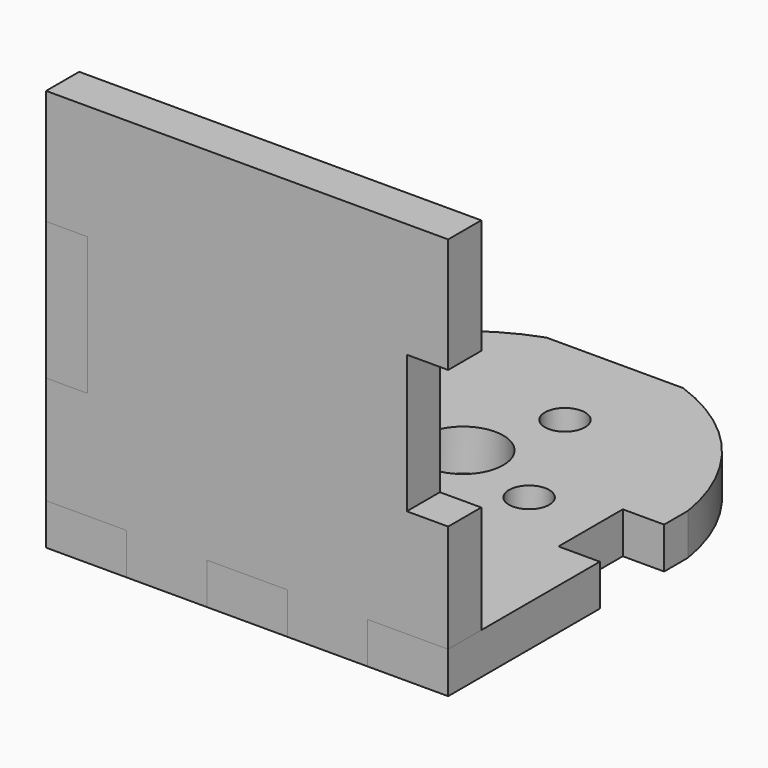
from build123d import *

# Parameters (mm, degrees)
F2_DEPTH = 3.6
F0_R     = 1.75
F0_W     = 6
F0_H     = 2
F0_R_2   = 3.5
F3_DEPTH = 3.6
F4_W     = 3.6
F4_H     = 12
F5_DEPTH = 3.6


with BuildPart() as f2:
    # F1 (on Front) → F2 (new body)
    with BuildSketch(Plane.XZ):
        Polygon((35, 35.005142), (0, 35.005142), (0, 25), (3.6, 25), (3.6, 13), (0, 13), (0, 3.6), (7, 3.6), (7, 0), (14, 0), (14, 3.6), (21, 3.6), (21, 0), (28, 0), (28, 3.6), (35, 3.6), (35, 13), (31.4, 13), (31.4, 25), (35, 25), align=None)
    extrude(amount=-F2_DEPTH)


with BuildPart() as f3:
    # F0 (on Top) → F3 (new body)
    with BuildSketch(Plane.XY):
        with BuildLine():
            Line((0, 16.5), (0, 0))
            Line((0, 0), (7, 0))
            Line((7, 0), (7, 3.6))
            Line((7, 3.6), (14, 3.6))
            Line((14, 3.6), (14, 0))
            Line((14, 0), (21, 0))
            Line((21, 0), (21, 3.6))
            Line((21, 3.6), (28, 3.6))
            Line((28, 3.6), (28, 0))
            Line((28, 0), (35, 0))
            Line((35, 0), (35, 16.5))
            Line((35, 16.5), (31.4, 16.5))
            Line((31.4, 16.5), (31.4, 23.5))
            Line((31.4, 23.5), (35, 23.5))
            Line((35, 23.5), (35, 26.103048))
            ThreePointArc((35, 26.103048), (31.127292, 34.635091), (23.445406, 40))
            Line((23.445406, 40), (11.554594, 40))
            ThreePointArc((11.554594, 40), (3.872708, 34.635091), (0, 26.103048))
            Line((0, 26.103048), (0, 23.5))
            Line((0, 23.5), (3.6, 23.5))
            Line((3.6, 23.5), (3.6, 16.5))
            Line((3.6, 16.5), (0, 16.5))
        make_face()
        with Locations((14.896952, 15.671421)):
            Circle(F0_R, mode=Mode.SUBTRACT)
        with Locations((21.966932, 8.378327)):
            Rectangle(F0_W, F0_H, mode=Mode.SUBTRACT)
        with Locations((9.671421, 26.103048)):
            Circle(F0_R, mode=Mode.SUBTRACT)
        with Locations((17.5, 23.5)):
            Circle(F0_R_2, mode=Mode.SUBTRACT)
        with Locations((25.328579, 20.896952)):
            Circle(F0_R, mode=Mode.SUBTRACT)
        with Locations((20.103048, 31.328579)):
            Circle(F0_R, mode=Mode.SUBTRACT)
    extrude(amount=F3_DEPTH)


with BuildPart() as f5:
    # F4 (on Right) → F5 (new body)
    with BuildSketch(Plane.YZ):
        Polygon((6.261451, 30), (3.6, 30), (3.6, 25), (3.6, 13), (3.6, 3.6), (16.5, 3.6), (16.5, 0), (23.5, 0), (23.5, 3.6), (30, 3.6), (30, 8.405508), align=None)
        with Locations((1.8, 19)):
            Rectangle(F4_W, F4_H)
    extrude(amount=F5_DEPTH)


solid = Compound([f2.part, f3.part, f5.part])
